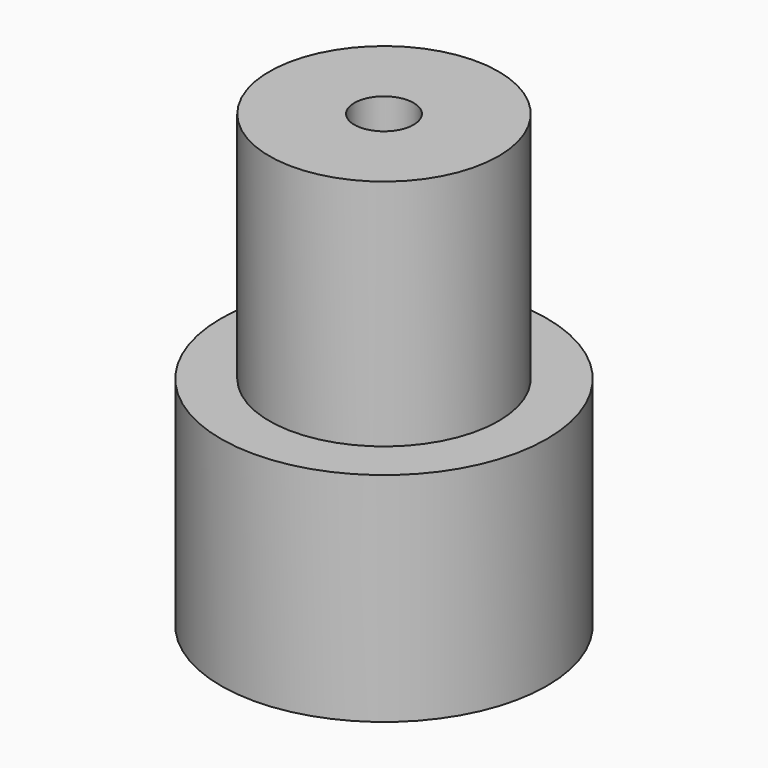
from build123d import *

# Parameters (mm, degrees)
F0_R     = 10.4775
F1_DEPTH = 13.97
F2_R     = 7.366
F3_DEPTH = 14.986
F4_R     = 8.5979
F5_DEPTH = 11.43
F6_R     = 1.905
F7_DEPTH = 17.78


with BuildPart() as f1:
    # F0 (on Top) → F1 (new body)
    with BuildSketch(Plane.XY):
        Circle(F0_R)
        Circle(F0_R)
    extrude(amount=F1_DEPTH)

    # F2 (on face) → F3 (join)
    with BuildSketch(Plane.XY.offset(13.97)):
        Circle(F2_R)
    extrude(amount=F3_DEPTH)

    # F4 (on face) → F5 (cut)
    with BuildSketch(Plane(origin=(0, 0, 0), x_dir=(1, 0, 0), z_dir=(0, 0, -1))):
        Circle(F4_R)
    extrude(amount=-F5_DEPTH, mode=Mode.SUBTRACT)

    # F6 (on face) → F7 (cut)
    with BuildSketch(Plane(origin=(0, 0, 11.43), x_dir=(1, 0, 0), z_dir=(0, 0, -1))):
        Circle(F6_R)
    extrude(amount=-F7_DEPTH, mode=Mode.SUBTRACT)


solid = f1.part
